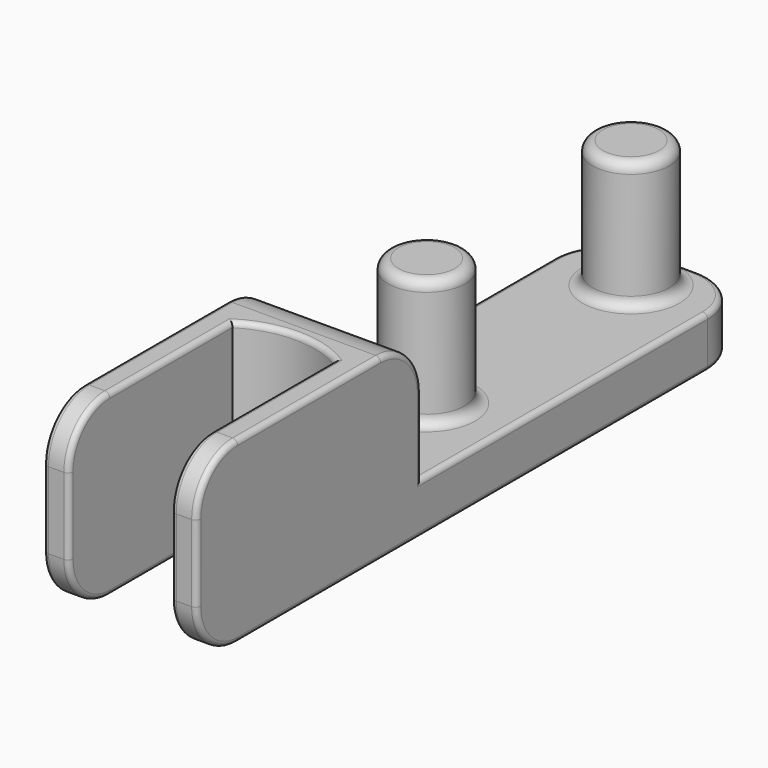
from build123d import *

# Parameters (mm, degrees)
F1_DEPTH = 35
F0_W     = 30
F0_H     = 80
F2_DEPTH = 10
F3_R     = 7.5
F4_DEPTH = 25
F5_R     = 10
F6_R     = 1
F7_R     = 2
F8_R     = 1


with BuildPart() as f1:
    # F0 (on Top) → F1 (new body)
    with BuildSketch(Plane.XY):
        with BuildLine():
            Line((30, 55), (0, 55))
            Line((0, 55), (0, 0))
            Line((0, 0), (5, 0))
            Line((5, 0), (5, 40))
            ThreePointArc((5, 40), (15, 42.8507403618), (25, 40))
            Line((25, 40), (25, 0))
            Line((25, 0), (30, 0))
            Line((30, 0), (30, 55))
        make_face()
    extrude(amount=F1_DEPTH)

    # F0 (on Top) → F2 (join)
    with BuildSketch(Plane.XY):
        with Locations((15, 95)):
            Rectangle(F0_W, F0_H)
    extrude(amount=F2_DEPTH)

    # F3 (on face) → F4 (join, through all)
    with BuildSketch(Plane.XY.offset(10)):
        with Locations((15, 125)):
            Circle(F3_R)
        with Locations((15, 75)):
            Circle(F3_R)
    extrude(amount=F4_DEPTH)

    # F5
    f5_edges = [f1.edges().sort_by_distance(p)[0] for p in [
        (0, 135, 5),
        (30, 135, 5),
        (15, 55, 35),
        (27.5, 0, 35),
        (2.5, 0, 35),
        (27.5, 0, 0),
        (2.5, 0, 0),
    ]]
    fillet(f5_edges, radius=F5_R)

    # F6
    f6_edges = [f1.edges().sort_by_distance(p)[0] for p in [
        (30, 0, 17.5),
        (30, 2.928932, 2.928932),
        (30, 2.928932, 32.071068),
        (30, 67.5, 0),
        (30, 27.5, 35),
        (30, 125, 5),
        (30, 52.071068, 32.071068),
        (30, 90, 10),
        (30, 55, 17.5),
    ]]
    fillet(f6_edges, radius=F6_R)

    # F7
    f7_edges = [f1.edges().sort_by_distance(p)[0] for p in [
        (7.5, 75, 10),
        (7.5, 125, 10),
        (7.5, 125, 35),
        (7.5, 75, 35),
    ]]
    fillet(f7_edges, radius=F7_R)

    # F8
    f8_edges = [f1.edges().sort_by_distance(p)[0] for p in [
        (5, 25, 35),
        (15, 42.85074, 35),
        (25, 25, 35),
        (15, 42.85074, 0),
    ]]
    fillet(f8_edges, radius=F8_R)


solid = f1.part
